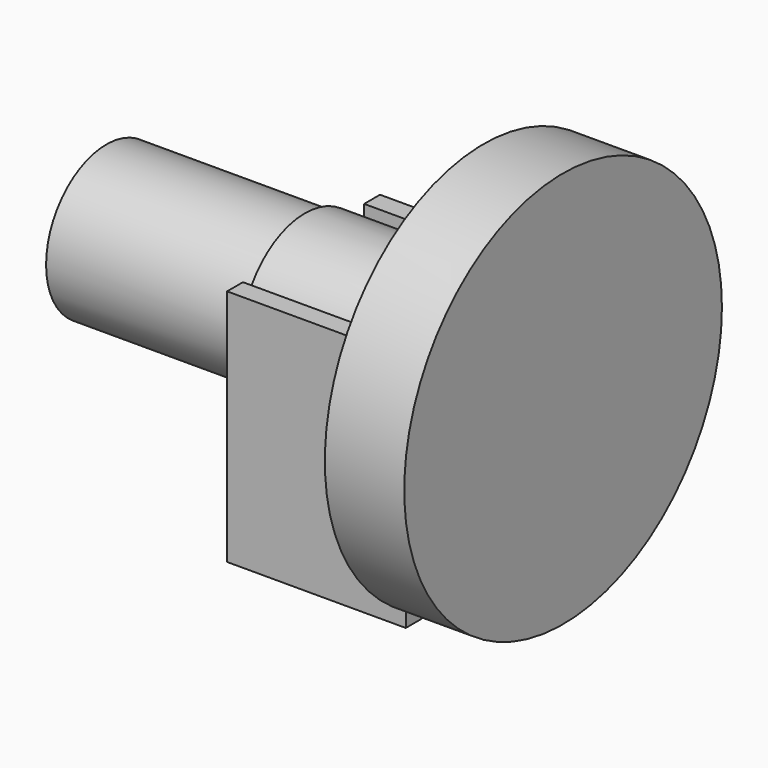
from build123d import *

# Parameters (mm, degrees)
F0_R     = 50
F1_DEPTH = 20
F2_R     = 20
F3_DEPTH = 45
F4_W     = 5
F4_H     = 60
F5_DEPTH = 45
F6_R     = 19
F7_DEPTH = 50
F8_W     = 5
F8_H     = 60
F9_DEPTH = 45


with BuildPart() as f1:
    # F0 (on Right) → F1 (new body)
    with BuildSketch(Plane.YZ):
        with Locations((0, 57.614021)):
            Circle(F0_R)
    extrude(amount=F1_DEPTH)

    # F2 (on face) → F3 (join)
    with BuildSketch(Plane(origin=(0, 0, 0), x_dir=(0, -1, 0), z_dir=(-1, 0, 0))):
        with Locations((0, 57.614021)):
            Circle(F2_R)
    extrude(amount=F3_DEPTH)

    # F4 (on Right) → F5 (join)
    with BuildSketch(Plane.YZ):
        with Locations((-22.020652, 40.254378)):
            Rectangle(F4_W, F4_H)
    extrude(amount=-F5_DEPTH)

    # F6 (on face) → F7 (join)
    with BuildSketch(Plane(origin=(-45, 0, 0), x_dir=(0, -1, 0), z_dir=(-1, 0, 0))):
        with Locations((0, 57.614021)):
            Circle(F6_R)
    extrude(amount=F7_DEPTH)

    # F8 (on Right) → F9 (join)
    with BuildSketch(Plane.YZ):
        with Locations((21.119455, 42.110385)):
            Rectangle(F8_W, F8_H)
    extrude(amount=-F9_DEPTH)


solid = f1.part
